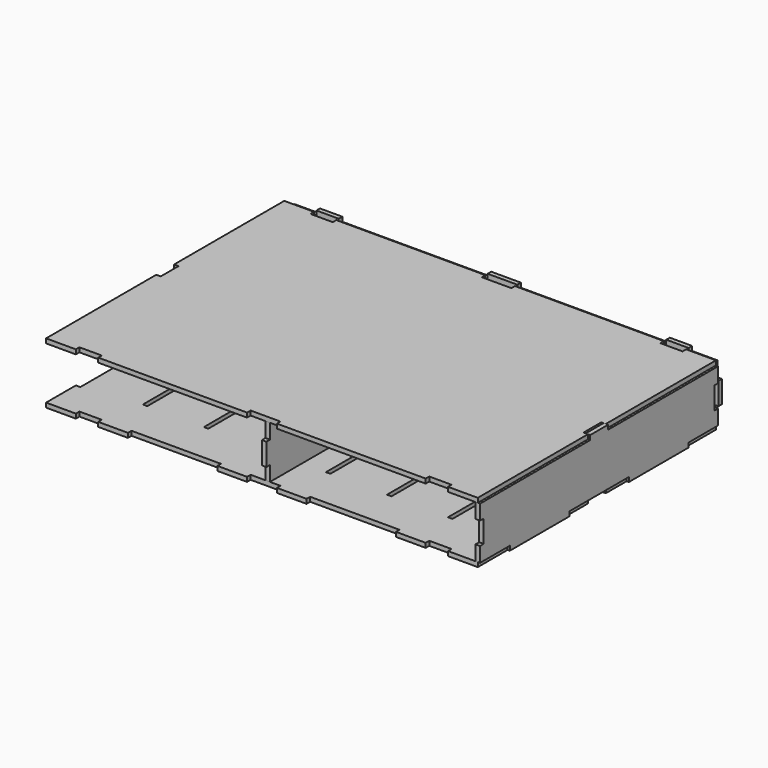
from build123d import *

# Parameters (mm, degrees)
F1_W      = 3
F1_H      = 35
F2_DEPTH  = 3
F4_DEPTH  = 3
F6_W      = 3
F6_H      = 15
F7_DEPTH  = 3
F9_W      = 3
F9_H      = 15
F9_W_2    = 35
F9_H_2    = 3
F10_DEPTH = 3
F12_DEPTH = 3
F15_DEPTH = 3


with BuildPart() as f2:
    # F1 (on Top) → F2 (new body)
    with BuildSketch(Plane.XY):
        Polygon((-125, 100), (-145, 100), (-145, 75), (-142, 75), (-142, 25), (-145, 25), (-145, 7.5), (-142, 7.5), (-142, -7.5), (-145, -7.5), (-145, -25), (-142, -25), (-142, -75), (-145, -75), (-145, -100), (-125, -100), (-125, -97), (-110, -97), (-110, -100), (-90, -100), (-90, -97), (-30, -97), (-30, -100), (-10, -100), (-10, -97), (10, -97), (10, -100), (30, -100), (30, -97), (90, -97), (90, -100), (110, -100), (110, -97), (125, -97), (125, -100), (145, -100), (145, -75), (142, -75), (142, -25), (145, -25), (145, -7.5), (142, -7.5), (142, 7.5), (145, 7.5), (145, 25), (142, 25), (142, 75), (145, 75), (145, 100), (125, 100), (125, 97), (110, 97), (110, 100), (90, 100), (90, 97), (30, 97), (30, 100), (10, 100), (10, 97), (-10, 97), (-10, 100), (-30, 100), (-30, 97), (-90, 97), (-90, 100), (-110, 100), (-110, 97), (-125, 97), align=None)
        with Locations((-102.5, -52.5)):
            Rectangle(F1_W, F1_H, mode=Mode.SUBTRACT)
        with Locations((-61.5, -52.5)):
            Rectangle(F1_W, F1_H, mode=Mode.SUBTRACT)
        with Locations((-20.5, -52.5)):
            Rectangle(F1_W, F1_H, mode=Mode.SUBTRACT)
        with Locations((20.5, -52.5)):
            Rectangle(F1_W, F1_H, mode=Mode.SUBTRACT)
        with Locations((61.5, -52.5)):
            Rectangle(F1_W, F1_H, mode=Mode.SUBTRACT)
        with Locations((102.5, -52.5)):
            Rectangle(F1_W, F1_H, mode=Mode.SUBTRACT)
        with Locations((-102.5, 52.5)):
            Rectangle(F1_W, F1_H, mode=Mode.SUBTRACT)
        with Locations((-61.5, 52.5)):
            Rectangle(F1_W, F1_H, mode=Mode.SUBTRACT)
        with Locations((-20.5, 52.5)):
            Rectangle(F1_W, F1_H, mode=Mode.SUBTRACT)
        with Locations((20.5, 52.5)):
            Rectangle(F1_W, F1_H, mode=Mode.SUBTRACT)
        with Locations((61.5, 52.5)):
            Rectangle(F1_W, F1_H, mode=Mode.SUBTRACT)
        with Locations((102.5, 52.5)):
            Rectangle(F1_W, F1_H, mode=Mode.SUBTRACT)
        Polygon((-125, 100), (-145, 100), (-145, 75), (-142, 75), (-142, 25), (-145, 25), (-145, 7.5), (-142, 7.5), (-142, -7.5), (-145, -7.5), (-145, -25), (-142, -25), (-142, -75), (-145, -75), (-145, -100), (-125, -100), (-125, -97), (-110, -97), (-110, -100), (-90, -100), (-90, -97), (-30, -97), (-30, -100), (-10, -100), (-10, -97), (10, -97), (10, -100), (30, -100), (30, -97), (90, -97), (90, -100), (110, -100), (110, -97), (125, -97), (125, -100), (145, -100), (145, -75), (142, -75), (142, -25), (145, -25), (145, -7.5), (142, -7.5), (142, 7.5), (145, 7.5), (145, 25), (142, 25), (142, 75), (145, 75), (145, 100), (125, 100), (125, 97), (110, 97), (110, 100), (90, 100), (90, 97), (30, 97), (30, 100), (10, 100), (10, 97), (-10, 97), (-10, 100), (-30, 100), (-30, 97), (-90, 97), (-90, 100), (-110, 100), (-110, 97), (-125, 97), align=None)
        with Locations((-102.5, -52.5)):
            Rectangle(F1_W, F1_H, mode=Mode.SUBTRACT)
        with Locations((-61.5, -52.5)):
            Rectangle(F1_W, F1_H, mode=Mode.SUBTRACT)
        with Locations((-20.5, -52.5)):
            Rectangle(F1_W, F1_H, mode=Mode.SUBTRACT)
        with Locations((20.5, -52.5)):
            Rectangle(F1_W, F1_H, mode=Mode.SUBTRACT)
        with Locations((61.5, -52.5)):
            Rectangle(F1_W, F1_H, mode=Mode.SUBTRACT)
        with Locations((102.5, -52.5)):
            Rectangle(F1_W, F1_H, mode=Mode.SUBTRACT)
        with Locations((-102.5, 52.5)):
            Rectangle(F1_W, F1_H, mode=Mode.SUBTRACT)
        with Locations((-61.5, 52.5)):
            Rectangle(F1_W, F1_H, mode=Mode.SUBTRACT)
        with Locations((-20.5, 52.5)):
            Rectangle(F1_W, F1_H, mode=Mode.SUBTRACT)
        with Locations((20.5, 52.5)):
            Rectangle(F1_W, F1_H, mode=Mode.SUBTRACT)
        with Locations((61.5, 52.5)):
            Rectangle(F1_W, F1_H, mode=Mode.SUBTRACT)
        with Locations((102.5, 52.5)):
            Rectangle(F1_W, F1_H, mode=Mode.SUBTRACT)
        Polygon((-125, 100), (-145, 100), (-145, 75), (-142, 75), (-142, 25), (-145, 25), (-145, 7.5), (-142, 7.5), (-142, -7.5), (-145, -7.5), (-145, -25), (-142, -25), (-142, -75), (-145, -75), (-145, -100), (-125, -100), (-125, -97), (-110, -97), (-110, -100), (-90, -100), (-90, -97), (-30, -97), (-30, -100), (-10, -100), (-10, -97), (10, -97), (10, -100), (30, -100), (30, -97), (90, -97), (90, -100), (110, -100), (110, -97), (125, -97), (125, -100), (145, -100), (145, -75), (142, -75), (142, -25), (145, -25), (145, -7.5), (142, -7.5), (142, 7.5), (145, 7.5), (145, 25), (142, 25), (142, 75), (145, 75), (145, 100), (125, 100), (125, 97), (110, 97), (110, 100), (90, 100), (90, 97), (30, 97), (30, 100), (10, 100), (10, 97), (-10, 97), (-10, 100), (-30, 100), (-30, 97), (-90, 97), (-90, 100), (-110, 100), (-110, 97), (-125, 97), align=None)
        with Locations((-102.5, -52.5)):
            Rectangle(F1_W, F1_H, mode=Mode.SUBTRACT)
        with Locations((-61.5, -52.5)):
            Rectangle(F1_W, F1_H, mode=Mode.SUBTRACT)
        with Locations((-20.5, -52.5)):
            Rectangle(F1_W, F1_H, mode=Mode.SUBTRACT)
        with Locations((20.5, -52.5)):
            Rectangle(F1_W, F1_H, mode=Mode.SUBTRACT)
        with Locations((61.5, -52.5)):
            Rectangle(F1_W, F1_H, mode=Mode.SUBTRACT)
        with Locations((102.5, -52.5)):
            Rectangle(F1_W, F1_H, mode=Mode.SUBTRACT)
        with Locations((-102.5, 52.5)):
            Rectangle(F1_W, F1_H, mode=Mode.SUBTRACT)
        with Locations((-61.5, 52.5)):
            Rectangle(F1_W, F1_H, mode=Mode.SUBTRACT)
        with Locations((-20.5, 52.5)):
            Rectangle(F1_W, F1_H, mode=Mode.SUBTRACT)
        with Locations((20.5, 52.5)):
            Rectangle(F1_W, F1_H, mode=Mode.SUBTRACT)
        with Locations((61.5, 52.5)):
            Rectangle(F1_W, F1_H, mode=Mode.SUBTRACT)
        with Locations((102.5, 52.5)):
            Rectangle(F1_W, F1_H, mode=Mode.SUBTRACT)
        Polygon((-125, 100), (-145, 100), (-145, 75), (-142, 75), (-142, 25), (-145, 25), (-145, 7.5), (-142, 7.5), (-142, -7.5), (-145, -7.5), (-145, -25), (-142, -25), (-142, -75), (-145, -75), (-145, -100), (-125, -100), (-125, -97), (-110, -97), (-110, -100), (-90, -100), (-90, -97), (-30, -97), (-30, -100), (-10, -100), (-10, -97), (10, -97), (10, -100), (30, -100), (30, -97), (90, -97), (90, -100), (110, -100), (110, -97), (125, -97), (125, -100), (145, -100), (145, -75), (142, -75), (142, -25), (145, -25), (145, -7.5), (142, -7.5), (142, 7.5), (145, 7.5), (145, 25), (142, 25), (142, 75), (145, 75), (145, 100), (125, 100), (125, 97), (110, 97), (110, 100), (90, 100), (90, 97), (30, 97), (30, 100), (10, 100), (10, 97), (-10, 97), (-10, 100), (-30, 100), (-30, 97), (-90, 97), (-90, 100), (-110, 100), (-110, 97), (-125, 97), align=None)
        with Locations((-102.5, -52.5)):
            Rectangle(F1_W, F1_H, mode=Mode.SUBTRACT)
        with Locations((-61.5, -52.5)):
            Rectangle(F1_W, F1_H, mode=Mode.SUBTRACT)
        with Locations((-20.5, -52.5)):
            Rectangle(F1_W, F1_H, mode=Mode.SUBTRACT)
        with Locations((20.5, -52.5)):
            Rectangle(F1_W, F1_H, mode=Mode.SUBTRACT)
        with Locations((61.5, -52.5)):
            Rectangle(F1_W, F1_H, mode=Mode.SUBTRACT)
        with Locations((102.5, -52.5)):
            Rectangle(F1_W, F1_H, mode=Mode.SUBTRACT)
        with Locations((-102.5, 52.5)):
            Rectangle(F1_W, F1_H, mode=Mode.SUBTRACT)
        with Locations((-61.5, 52.5)):
            Rectangle(F1_W, F1_H, mode=Mode.SUBTRACT)
        with Locations((-20.5, 52.5)):
            Rectangle(F1_W, F1_H, mode=Mode.SUBTRACT)
        with Locations((20.5, 52.5)):
            Rectangle(F1_W, F1_H, mode=Mode.SUBTRACT)
        with Locations((61.5, 52.5)):
            Rectangle(F1_W, F1_H, mode=Mode.SUBTRACT)
        with Locations((102.5, 52.5)):
            Rectangle(F1_W, F1_H, mode=Mode.SUBTRACT)
        Polygon((-125, 100), (-145, 100), (-145, 75), (-142, 75), (-142, 25), (-145, 25), (-145, 7.5), (-142, 7.5), (-142, -7.5), (-145, -7.5), (-145, -25), (-142, -25), (-142, -75), (-145, -75), (-145, -100), (-125, -100), (-125, -97), (-110, -97), (-110, -100), (-90, -100), (-90, -97), (-30, -97), (-30, -100), (-10, -100), (-10, -97), (10, -97), (10, -100), (30, -100), (30, -97), (90, -97), (90, -100), (110, -100), (110, -97), (125, -97), (125, -100), (145, -100), (145, -75), (142, -75), (142, -25), (145, -25), (145, -7.5), (142, -7.5), (142, 7.5), (145, 7.5), (145, 25), (142, 25), (142, 75), (145, 75), (145, 100), (125, 100), (125, 97), (110, 97), (110, 100), (90, 100), (90, 97), (30, 97), (30, 100), (10, 100), (10, 97), (-10, 97), (-10, 100), (-30, 100), (-30, 97), (-90, 97), (-90, 100), (-110, 100), (-110, 97), (-125, 97), align=None)
        with Locations((-102.5, -52.5)):
            Rectangle(F1_W, F1_H, mode=Mode.SUBTRACT)
        with Locations((-61.5, -52.5)):
            Rectangle(F1_W, F1_H, mode=Mode.SUBTRACT)
        with Locations((-20.5, -52.5)):
            Rectangle(F1_W, F1_H, mode=Mode.SUBTRACT)
        with Locations((20.5, -52.5)):
            Rectangle(F1_W, F1_H, mode=Mode.SUBTRACT)
        with Locations((61.5, -52.5)):
            Rectangle(F1_W, F1_H, mode=Mode.SUBTRACT)
        with Locations((102.5, -52.5)):
            Rectangle(F1_W, F1_H, mode=Mode.SUBTRACT)
        with Locations((-102.5, 52.5)):
            Rectangle(F1_W, F1_H, mode=Mode.SUBTRACT)
        with Locations((-61.5, 52.5)):
            Rectangle(F1_W, F1_H, mode=Mode.SUBTRACT)
        with Locations((-20.5, 52.5)):
            Rectangle(F1_W, F1_H, mode=Mode.SUBTRACT)
        with Locations((20.5, 52.5)):
            Rectangle(F1_W, F1_H, mode=Mode.SUBTRACT)
        with Locations((61.5, 52.5)):
            Rectangle(F1_W, F1_H, mode=Mode.SUBTRACT)
        with Locations((102.5, 52.5)):
            Rectangle(F1_W, F1_H, mode=Mode.SUBTRACT)
        Polygon((-125, 100), (-145, 100), (-145, 75), (-142, 75), (-142, 25), (-145, 25), (-145, 7.5), (-142, 7.5), (-142, -7.5), (-145, -7.5), (-145, -25), (-142, -25), (-142, -75), (-145, -75), (-145, -100), (-125, -100), (-125, -97), (-110, -97), (-110, -100), (-90, -100), (-90, -97), (-30, -97), (-30, -100), (-10, -100), (-10, -97), (10, -97), (10, -100), (30, -100), (30, -97), (90, -97), (90, -100), (110, -100), (110, -97), (125, -97), (125, -100), (145, -100), (145, -75), (142, -75), (142, -25), (145, -25), (145, -7.5), (142, -7.5), (142, 7.5), (145, 7.5), (145, 25), (142, 25), (142, 75), (145, 75), (145, 100), (125, 100), (125, 97), (110, 97), (110, 100), (90, 100), (90, 97), (30, 97), (30, 100), (10, 100), (10, 97), (-10, 97), (-10, 100), (-30, 100), (-30, 97), (-90, 97), (-90, 100), (-110, 100), (-110, 97), (-125, 97), align=None)
        with Locations((-102.5, -52.5)):
            Rectangle(F1_W, F1_H, mode=Mode.SUBTRACT)
        with Locations((-61.5, -52.5)):
            Rectangle(F1_W, F1_H, mode=Mode.SUBTRACT)
        with Locations((-20.5, -52.5)):
            Rectangle(F1_W, F1_H, mode=Mode.SUBTRACT)
        with Locations((20.5, -52.5)):
            Rectangle(F1_W, F1_H, mode=Mode.SUBTRACT)
        with Locations((61.5, -52.5)):
            Rectangle(F1_W, F1_H, mode=Mode.SUBTRACT)
        with Locations((102.5, -52.5)):
            Rectangle(F1_W, F1_H, mode=Mode.SUBTRACT)
        with Locations((-102.5, 52.5)):
            Rectangle(F1_W, F1_H, mode=Mode.SUBTRACT)
        with Locations((-61.5, 52.5)):
            Rectangle(F1_W, F1_H, mode=Mode.SUBTRACT)
        with Locations((-20.5, 52.5)):
            Rectangle(F1_W, F1_H, mode=Mode.SUBTRACT)
        with Locations((20.5, 52.5)):
            Rectangle(F1_W, F1_H, mode=Mode.SUBTRACT)
        with Locations((61.5, 52.5)):
            Rectangle(F1_W, F1_H, mode=Mode.SUBTRACT)
        with Locations((102.5, 52.5)):
            Rectangle(F1_W, F1_H, mode=Mode.SUBTRACT)
        Polygon((-125, 100), (-145, 100), (-145, 75), (-142, 75), (-142, 25), (-145, 25), (-145, 7.5), (-142, 7.5), (-142, -7.5), (-145, -7.5), (-145, -25), (-142, -25), (-142, -75), (-145, -75), (-145, -100), (-125, -100), (-125, -97), (-110, -97), (-110, -100), (-90, -100), (-90, -97), (-30, -97), (-30, -100), (-10, -100), (-10, -97), (10, -97), (10, -100), (30, -100), (30, -97), (90, -97), (90, -100), (110, -100), (110, -97), (125, -97), (125, -100), (145, -100), (145, -75), (142, -75), (142, -25), (145, -25), (145, -7.5), (142, -7.5), (142, 7.5), (145, 7.5), (145, 25), (142, 25), (142, 75), (145, 75), (145, 100), (125, 100), (125, 97), (110, 97), (110, 100), (90, 100), (90, 97), (30, 97), (30, 100), (10, 100), (10, 97), (-10, 97), (-10, 100), (-30, 100), (-30, 97), (-90, 97), (-90, 100), (-110, 100), (-110, 97), (-125, 97), align=None)
        with Locations((-102.5, -52.5)):
            Rectangle(F1_W, F1_H, mode=Mode.SUBTRACT)
        with Locations((-61.5, -52.5)):
            Rectangle(F1_W, F1_H, mode=Mode.SUBTRACT)
        with Locations((-20.5, -52.5)):
            Rectangle(F1_W, F1_H, mode=Mode.SUBTRACT)
        with Locations((20.5, -52.5)):
            Rectangle(F1_W, F1_H, mode=Mode.SUBTRACT)
        with Locations((61.5, -52.5)):
            Rectangle(F1_W, F1_H, mode=Mode.SUBTRACT)
        with Locations((102.5, -52.5)):
            Rectangle(F1_W, F1_H, mode=Mode.SUBTRACT)
        with Locations((-102.5, 52.5)):
            Rectangle(F1_W, F1_H, mode=Mode.SUBTRACT)
        with Locations((-61.5, 52.5)):
            Rectangle(F1_W, F1_H, mode=Mode.SUBTRACT)
        with Locations((-20.5, 52.5)):
            Rectangle(F1_W, F1_H, mode=Mode.SUBTRACT)
        with Locations((20.5, 52.5)):
            Rectangle(F1_W, F1_H, mode=Mode.SUBTRACT)
        with Locations((61.5, 52.5)):
            Rectangle(F1_W, F1_H, mode=Mode.SUBTRACT)
        with Locations((102.5, 52.5)):
            Rectangle(F1_W, F1_H, mode=Mode.SUBTRACT)
        Polygon((-125, 100), (-145, 100), (-145, 75), (-142, 75), (-142, 25), (-145, 25), (-145, 7.5), (-142, 7.5), (-142, -7.5), (-145, -7.5), (-145, -25), (-142, -25), (-142, -75), (-145, -75), (-145, -100), (-125, -100), (-125, -97), (-110, -97), (-110, -100), (-90, -100), (-90, -97), (-30, -97), (-30, -100), (-10, -100), (-10, -97), (10, -97), (10, -100), (30, -100), (30, -97), (90, -97), (90, -100), (110, -100), (110, -97), (125, -97), (125, -100), (145, -100), (145, -75), (142, -75), (142, -25), (145, -25), (145, -7.5), (142, -7.5), (142, 7.5), (145, 7.5), (145, 25), (142, 25), (142, 75), (145, 75), (145, 100), (125, 100), (125, 97), (110, 97), (110, 100), (90, 100), (90, 97), (30, 97), (30, 100), (10, 100), (10, 97), (-10, 97), (-10, 100), (-30, 100), (-30, 97), (-90, 97), (-90, 100), (-110, 100), (-110, 97), (-125, 97), align=None)
        with Locations((-102.5, -52.5)):
            Rectangle(F1_W, F1_H, mode=Mode.SUBTRACT)
        with Locations((-61.5, -52.5)):
            Rectangle(F1_W, F1_H, mode=Mode.SUBTRACT)
        with Locations((-20.5, -52.5)):
            Rectangle(F1_W, F1_H, mode=Mode.SUBTRACT)
        with Locations((20.5, -52.5)):
            Rectangle(F1_W, F1_H, mode=Mode.SUBTRACT)
        with Locations((61.5, -52.5)):
            Rectangle(F1_W, F1_H, mode=Mode.SUBTRACT)
        with Locations((102.5, -52.5)):
            Rectangle(F1_W, F1_H, mode=Mode.SUBTRACT)
        with Locations((-102.5, 52.5)):
            Rectangle(F1_W, F1_H, mode=Mode.SUBTRACT)
        with Locations((-61.5, 52.5)):
            Rectangle(F1_W, F1_H, mode=Mode.SUBTRACT)
        with Locations((-20.5, 52.5)):
            Rectangle(F1_W, F1_H, mode=Mode.SUBTRACT)
        with Locations((20.5, 52.5)):
            Rectangle(F1_W, F1_H, mode=Mode.SUBTRACT)
        with Locations((61.5, 52.5)):
            Rectangle(F1_W, F1_H, mode=Mode.SUBTRACT)
        with Locations((102.5, 52.5)):
            Rectangle(F1_W, F1_H, mode=Mode.SUBTRACT)
        Polygon((-125, 100), (-145, 100), (-145, 75), (-142, 75), (-142, 25), (-145, 25), (-145, 7.5), (-142, 7.5), (-142, -7.5), (-145, -7.5), (-145, -25), (-142, -25), (-142, -75), (-145, -75), (-145, -100), (-125, -100), (-125, -97), (-110, -97), (-110, -100), (-90, -100), (-90, -97), (-30, -97), (-30, -100), (-10, -100), (-10, -97), (10, -97), (10, -100), (30, -100), (30, -97), (90, -97), (90, -100), (110, -100), (110, -97), (125, -97), (125, -100), (145, -100), (145, -75), (142, -75), (142, -25), (145, -25), (145, -7.5), (142, -7.5), (142, 7.5), (145, 7.5), (145, 25), (142, 25), (142, 75), (145, 75), (145, 100), (125, 100), (125, 97), (110, 97), (110, 100), (90, 100), (90, 97), (30, 97), (30, 100), (10, 100), (10, 97), (-10, 97), (-10, 100), (-30, 100), (-30, 97), (-90, 97), (-90, 100), (-110, 100), (-110, 97), (-125, 97), align=None)
        with Locations((-102.5, -52.5)):
            Rectangle(F1_W, F1_H, mode=Mode.SUBTRACT)
        with Locations((-61.5, -52.5)):
            Rectangle(F1_W, F1_H, mode=Mode.SUBTRACT)
        with Locations((-20.5, -52.5)):
            Rectangle(F1_W, F1_H, mode=Mode.SUBTRACT)
        with Locations((20.5, -52.5)):
            Rectangle(F1_W, F1_H, mode=Mode.SUBTRACT)
        with Locations((61.5, -52.5)):
            Rectangle(F1_W, F1_H, mode=Mode.SUBTRACT)
        with Locations((102.5, -52.5)):
            Rectangle(F1_W, F1_H, mode=Mode.SUBTRACT)
        with Locations((-102.5, 52.5)):
            Rectangle(F1_W, F1_H, mode=Mode.SUBTRACT)
        with Locations((-61.5, 52.5)):
            Rectangle(F1_W, F1_H, mode=Mode.SUBTRACT)
        with Locations((-20.5, 52.5)):
            Rectangle(F1_W, F1_H, mode=Mode.SUBTRACT)
        with Locations((20.5, 52.5)):
            Rectangle(F1_W, F1_H, mode=Mode.SUBTRACT)
        with Locations((61.5, 52.5)):
            Rectangle(F1_W, F1_H, mode=Mode.SUBTRACT)
        with Locations((102.5, 52.5)):
            Rectangle(F1_W, F1_H, mode=Mode.SUBTRACT)
    extrude(amount=F2_DEPTH)


with BuildPart() as f4:
    # F3 (on Right) → F4 (new body)
    with BuildSketch(Plane.YZ):
        Polygon((-7.5, 38), (-100, 38), (-100, 28), (-97, 28), (-97, 13), (-100, 13), (-100, 3), (-75, 3), (-75, 0), (-25, 0), (-25, 3), (25, 3), (25, 0), (75, 0), (75, 3), (100, 3), (100, 13), (97, 13), (97, 28), (100, 28), (100, 38), (7.5, 38), (7.5, 41), (0, 41), (-7.5, 41), align=None)
    extrude(amount=F4_DEPTH)


with BuildPart() as f4_1:
    # F5: moved
    add(f4.part.moved(Location((143.5, 0, 0))))


with BuildPart() as f7:
    # F6 (on Front) → F7 (new body)
    with BuildSketch(Plane.XZ):
        Polygon((-125, 38), (-142, 38), (-142, 28), (-145, 28), (-145, 13), (-142, 13), (-142, 3), (-90, 3), (-90, 0), (-30, 0), (-30, 3), (30, 3), (30, 0), (90, 0), (90, 3), (142, 3), (142, 13), (145, 13), (145, 28), (142, 28), (142, 38), (125, 38), (125, 41), (110, 41), (110, 38), (90, 38), (10, 38), (10, 41), (-10, 41), (-10, 38), (-90, 38), (-110, 38), (-110, 41), (-125, 41), align=None)
        with Locations((-102.5, 20.5)):
            Rectangle(F6_W, F6_H, mode=Mode.SUBTRACT)
        with Locations((-61.5, 20.5)):
            Rectangle(F6_W, F6_H, mode=Mode.SUBTRACT)
        with Locations((-20.5, 20.5)):
            Rectangle(F6_W, F6_H, mode=Mode.SUBTRACT)
        with Locations((20.5, 20.5)):
            Rectangle(F6_W, F6_H, mode=Mode.SUBTRACT)
        with Locations((61.5, 20.5)):
            Rectangle(F6_W, F6_H, mode=Mode.SUBTRACT)
        with Locations((102.5, 20.5)):
            Rectangle(F6_W, F6_H, mode=Mode.SUBTRACT)
    extrude(amount=F7_DEPTH)


with BuildPart() as f7_1:
    # F8: moved
    add(f7.part.moved(Location((0, 105, 0))))


with BuildPart() as f10:
    # F9 (on Right) → F10 (new body)
    with BuildSketch(Plane.YZ):
        Polygon((97, 38), (-97, 38), (-97, 28), (-97, 13), (-97, 3), (-70, 3), (-35, 3), (35, 3), (70, 3), (97, 3), (97, 13), (97, 28), align=None)
        with Locations((-98.5, 20.5)):
            Rectangle(F9_W, F9_H)
        with Locations((98.5, 20.5)):
            Rectangle(F9_W, F9_H)
        with Locations((-52.5, 1.5)):
            Rectangle(F9_W_2, F9_H_2)
        with Locations((52.5, 1.5)):
            Rectangle(F9_W_2, F9_H_2)
    extrude(amount=F10_DEPTH)


with BuildPart() as f12:
    # F11 (on Top) → F12 (new body)
    with BuildSketch(Plane.XY):
        Polygon((-125, 100), (-145, 100), (-145, 7.5), (-142, 7.5), (-142, -7.5), (-145, -7.5), (-145, -100), (-125, -100), (-125, -97), (-110, -97), (-110, -100), (-10, -100), (-10, -97), (10, -97), (10, -100), (110, -100), (110, -97), (125, -97), (125, -100), (145, -100), (145, -7.5), (142, -7.5), (142, 7.5), (145, 7.5), (145, 100), (125, 100), (125, 97), (110, 97), (110, 100), (10, 100), (10, 97), (-10, 97), (-10, 100), (-110, 100), (-110, 97), (-125, 97), align=None)
    extrude(amount=F12_DEPTH)


with BuildPart() as f12_1:
    # F13: moved
    add(f12.part.moved(Location((0, 0, 38))))


with BuildPart() as f15:
    # F14 (on Front) → F15 (new body)
    with BuildSketch(Plane.XZ):
        Polygon((-5, 3), (0, 3), (0, 38), (-38, 38), (-38, 3), (-33, 3), (-33, 6), (-25, 6), (-25, 3), (-13, 3), (-13, 6), (-5, 6), align=None)
    extrude(amount=F15_DEPTH)


solid = Compound([f2.part, f4_1.part, f7_1.part, f10.part, f12_1.part, f15.part])
